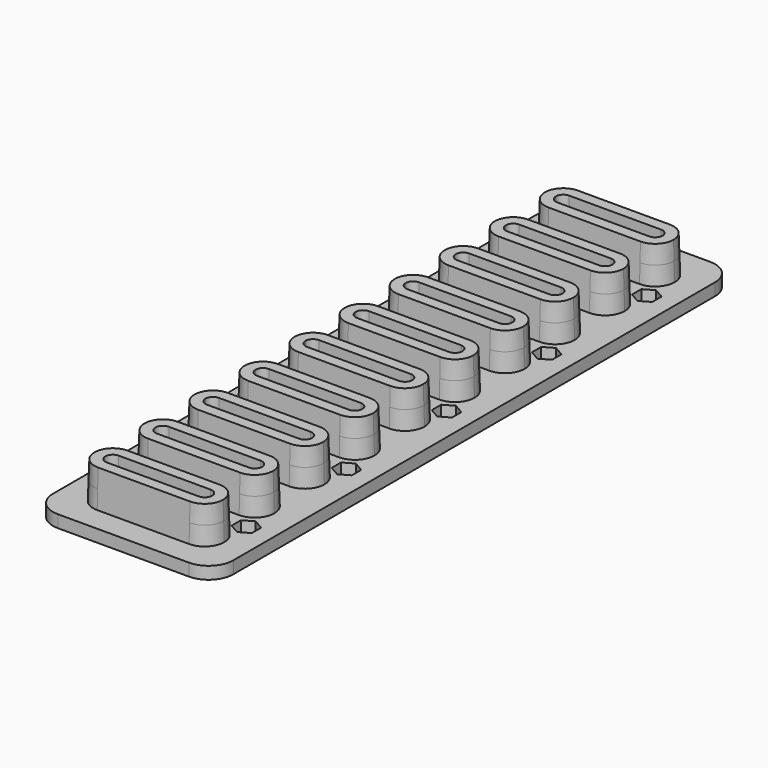
from build123d import *

# Parameters (mm, degrees)
F2_DEPTH      = 7.5
F2_TAPER      = 1.909
F2_DEPTH_BACK = 7.5
F2_TAPER_BACK = -1.909
F3_DEPTH      = 7.5
F3_DEPTH_BACK = 7.5
F4_R          = 2.75
F5_DEPTH      = 5
F6_DEPTH      = 4.5


with BuildPart() as f2:
    # F0 (on Top) → F2 (new body, two sides)
    with BuildSketch(Plane.XY) as f2_sk:
        with BuildLine():
            Line((18.65, 7.7), (-18.65, 7.7))
            ThreePointArc((-18.65, 7.7), (-24.0947222151, 5.4447222151), (-26.35, 0))
            ThreePointArc((-26.35, 0), (-24.0947222151, -5.4447222151), (-18.65, -7.7))
            Line((-18.65, -7.7), (18.65, -7.7))
            ThreePointArc((18.65, -7.7), (24.0947222151, -5.4447222151), (26.35, 0))
            ThreePointArc((26.35, 0), (24.0947222151, 5.4447222151), (18.65, 7.7))
        make_face()
    extrude(amount=F2_DEPTH, taper=F2_TAPER)
    extrude(f2_sk.sketch, amount=-F2_DEPTH_BACK, taper=F2_TAPER_BACK)


with BuildPart() as f2b:
    # F0 (on Top) → F2, piece 2 (new body, two sides)
    with BuildSketch(Plane.XY) as f2_2_sk:
        with BuildLine():
            Line((18.65, 33.1), (-18.65, 33.1))
            ThreePointArc((-18.65, 33.1), (-24.0947222151, 30.8447222151), (-26.35, 25.4))
            ThreePointArc((-26.35, 25.4), (-24.0947222151, 19.9552777849), (-18.65, 17.7))
            Line((-18.65, 17.7), (18.65, 17.7))
            ThreePointArc((18.65, 17.7), (24.0947222151, 19.9552777849), (26.35, 25.4))
            ThreePointArc((26.35, 25.4), (24.0947222151, 30.8447222151), (18.65, 33.1))
        make_face()
    extrude(amount=F2_DEPTH, taper=F2_TAPER)
    extrude(f2_2_sk.sketch, amount=-F2_DEPTH_BACK, taper=F2_TAPER_BACK)


with BuildPart() as f2c:
    # F0 (on Top) → F2, piece 3 (new body, two sides)
    with BuildSketch(Plane.XY) as f2_3_sk:
        with BuildLine():
            Line((-18.65, 43.1), (18.65, 43.1))
            ThreePointArc((18.65, 43.1), (24.0947222151, 45.3552777849), (26.35, 50.8))
            ThreePointArc((26.35, 50.8), (24.0947222151, 56.2447222151), (18.65, 58.5))
            Line((18.65, 58.5), (-18.65, 58.5))
            ThreePointArc((-18.65, 58.5), (-24.0947222151, 56.2447222151), (-26.35, 50.8))
            ThreePointArc((-26.35, 50.8), (-24.0947222151, 45.3552777849), (-18.65, 43.1))
        make_face()
    extrude(amount=F2_DEPTH, taper=F2_TAPER)
    extrude(f2_3_sk.sketch, amount=-F2_DEPTH_BACK, taper=F2_TAPER_BACK)


with BuildPart() as f2d:
    # F0 (on Top) → F2, piece 4 (new body, two sides)
    with BuildSketch(Plane.XY) as f2_4_sk:
        with BuildLine():
            ThreePointArc((18.65, 68.5), (24.0947222151, 70.7552777849), (26.35, 76.2))
            ThreePointArc((26.35, 76.2), (24.0947222151, 81.6447222151), (18.65, 83.9))
            Line((18.65, 83.9), (-18.65, 83.9))
            ThreePointArc((-18.65, 83.9), (-24.0947222151, 81.6447222151), (-26.35, 76.2))
            ThreePointArc((-26.35, 76.2), (-24.0947222151, 70.7552777849), (-18.65, 68.5))
            Line((-18.65, 68.5), (18.65, 68.5))
        make_face()
    extrude(amount=F2_DEPTH, taper=F2_TAPER)
    extrude(f2_4_sk.sketch, amount=-F2_DEPTH_BACK, taper=F2_TAPER_BACK)


with BuildPart() as f2e:
    # F0 (on Top) → F2, piece 5 (new body, two sides)
    with BuildSketch(Plane.XY) as f2_5_sk:
        with BuildLine():
            Line((18.65, 109.3), (-18.65, 109.3))
            ThreePointArc((-18.65, 109.3), (-24.0947222151, 107.0447222151), (-26.35, 101.6))
            ThreePointArc((-26.35, 101.6), (-24.0947222151, 96.1552777849), (-18.65, 93.9))
            Line((-18.65, 93.9), (18.65, 93.9))
            ThreePointArc((18.65, 93.9), (24.0947222151, 96.1552777849), (26.35, 101.6))
            ThreePointArc((26.35, 101.6), (24.0947222151, 107.0447222151), (18.65, 109.3))
        make_face()
    extrude(amount=F2_DEPTH, taper=F2_TAPER)
    extrude(f2_5_sk.sketch, amount=-F2_DEPTH_BACK, taper=F2_TAPER_BACK)


with BuildPart() as f2f:
    # F0 (on Top) → F2, piece 6 (new body, two sides)
    with BuildSketch(Plane.XY) as f2_6_sk:
        with BuildLine():
            ThreePointArc((-26.35, 127), (-24.0947222151, 121.5552777849), (-18.65, 119.3))
            Line((-18.65, 119.3), (18.65, 119.3))
            ThreePointArc((18.65, 119.3), (24.0947222151, 121.5552777849), (26.35, 127))
            ThreePointArc((26.35, 127), (24.0947222151, 132.4447222151), (18.65, 134.7))
            Line((18.65, 134.7), (-18.65, 134.7))
            ThreePointArc((-18.65, 134.7), (-24.0947222151, 132.4447222151), (-26.35, 127))
        make_face()
    extrude(amount=F2_DEPTH, taper=F2_TAPER)
    extrude(f2_6_sk.sketch, amount=-F2_DEPTH_BACK, taper=F2_TAPER_BACK)


with BuildPart() as f2g:
    # F0 (on Top) → F2, piece 7 (new body, two sides)
    with BuildSketch(Plane.XY) as f2_7_sk:
        with BuildLine():
            Line((-18.65, 144.7), (18.65, 144.7))
            ThreePointArc((18.65, 144.7), (24.0947222151, 146.9552777849), (26.35, 152.4))
            ThreePointArc((26.35, 152.4), (24.0947222151, 157.8447222151), (18.65, 160.1))
            Line((18.65, 160.1), (-18.65, 160.1))
            ThreePointArc((-18.65, 160.1), (-24.0947222151, 157.8447222151), (-26.35, 152.4))
            ThreePointArc((-26.35, 152.4), (-24.0947222151, 146.9552777849), (-18.65, 144.7))
        make_face()
    extrude(amount=F2_DEPTH, taper=F2_TAPER)
    extrude(f2_7_sk.sketch, amount=-F2_DEPTH_BACK, taper=F2_TAPER_BACK)


with BuildPart() as f2h:
    # F0 (on Top) → F2, piece 8 (new body, two sides)
    with BuildSketch(Plane.XY) as f2_8_sk:
        with BuildLine():
            ThreePointArc((-18.65, 185.5), (-24.0947222151, 183.2447222151), (-26.35, 177.8))
            ThreePointArc((-26.35, 177.8), (-24.0947222151, 172.3552777849), (-18.65, 170.1))
            Line((-18.65, 170.1), (18.65, 170.1))
            ThreePointArc((18.65, 170.1), (24.0947222151, 172.3552777849), (26.35, 177.8))
            ThreePointArc((26.35, 177.8), (24.0947222151, 183.2447222151), (18.65, 185.5))
            Line((18.65, 185.5), (-18.65, 185.5))
        make_face()
    extrude(amount=F2_DEPTH, taper=F2_TAPER)
    extrude(f2_8_sk.sketch, amount=-F2_DEPTH_BACK, taper=F2_TAPER_BACK)


with BuildPart() as f2i:
    # F0 (on Top) → F2, piece 9 (new body, two sides)
    with BuildSketch(Plane.XY) as f2_9_sk:
        with BuildLine():
            Line((18.65, 210.9), (-18.65, 210.9))
            ThreePointArc((-18.65, 210.9), (-24.0947222151, 208.6447222151), (-26.35, 203.2))
            ThreePointArc((-26.35, 203.2), (-24.0947222151, 197.7552777849), (-18.65, 195.5))
            Line((-18.65, 195.5), (18.65, 195.5))
            ThreePointArc((18.65, 195.5), (24.0947222151, 197.7552777849), (26.35, 203.2))
            ThreePointArc((26.35, 203.2), (24.0947222151, 208.6447222151), (18.65, 210.9))
        make_face()
    extrude(amount=F2_DEPTH, taper=F2_TAPER)
    extrude(f2_9_sk.sketch, amount=-F2_DEPTH_BACK, taper=F2_TAPER_BACK)


with BuildPart() as f2j:
    # F0 (on Top) → F2, piece 10 (new body, two sides)
    with BuildSketch(Plane.XY) as f2_10_sk:
        with BuildLine():
            ThreePointArc((-26.35, 228.6), (-24.0947222151, 223.1552777849), (-18.65, 220.9))
            Line((-18.65, 220.9), (18.65, 220.9))
            ThreePointArc((18.65, 220.9), (24.0947222151, 223.1552777849), (26.35, 228.6))
            ThreePointArc((26.35, 228.6), (24.0947222151, 234.0447222151), (18.65, 236.3))
            Line((18.65, 236.3), (-18.65, 236.3))
            ThreePointArc((-18.65, 236.3), (-24.0947222151, 234.0447222151), (-26.35, 228.6))
        make_face()
    extrude(amount=F2_DEPTH, taper=F2_TAPER)
    extrude(f2_10_sk.sketch, amount=-F2_DEPTH_BACK, taper=F2_TAPER_BACK)


with BuildPart() as f3_tool:
    # F1 (on Top) → F3 (new body, two sides)
    with BuildSketch(Plane.XY) as f3_sk:
        with BuildLine():
            Line((18.65, 3), (-18.65, 3))
            ThreePointArc((-18.65, 3), (-20.7713203436, 2.1213203436), (-21.65, 0))
            ThreePointArc((-21.65, 0), (-20.7713203436, -2.1213203436), (-18.65, -3))
            Line((-18.65, -3), (18.65, -3))
            ThreePointArc((18.65, -3), (20.7713203436, -2.1213203436), (21.65, 0))
            ThreePointArc((21.65, 0), (20.7713203436, 2.1213203436), (18.65, 3))
        make_face()
        with BuildLine():
            Line((18.65, 28.4), (-18.65, 28.4))
            ThreePointArc((-18.65, 28.4), (-20.7713203436, 27.5213203436), (-21.65, 25.4))
            ThreePointArc((-21.65, 25.4), (-20.7713203436, 23.2786796564), (-18.65, 22.4))
            Line((-18.65, 22.4), (18.65, 22.4))
            ThreePointArc((18.65, 22.4), (20.7713203436, 23.2786796564), (21.65, 25.4))
            ThreePointArc((21.65, 25.4), (20.7713203436, 27.5213203436), (18.65, 28.4))
        make_face()
        with BuildLine():
            ThreePointArc((-21.65, 50.8), (-20.7713203436, 48.6786796564), (-18.65, 47.8))
            Line((-18.65, 47.8), (18.65, 47.8))
            ThreePointArc((18.65, 47.8), (20.7713203436, 48.6786796564), (21.65, 50.8))
            ThreePointArc((21.65, 50.8), (20.7713203436, 52.9213203436), (18.65, 53.8))
            Line((18.65, 53.8), (-18.65, 53.8))
            ThreePointArc((-18.65, 53.8), (-20.7713203436, 52.9213203436), (-21.65, 50.8))
        make_face()
        with BuildLine():
            ThreePointArc((-21.65, 76.2), (-20.7713203436, 74.0786796564), (-18.65, 73.2))
            Line((-18.65, 73.2), (18.65, 73.2))
            ThreePointArc((18.65, 73.2), (20.7713203436, 74.0786796564), (21.65, 76.2))
            ThreePointArc((21.65, 76.2), (20.7713203436, 78.3213203436), (18.65, 79.2))
            Line((18.65, 79.2), (-18.65, 79.2))
            ThreePointArc((-18.65, 79.2), (-20.7713203436, 78.3213203436), (-21.65, 76.2))
        make_face()
        with BuildLine():
            ThreePointArc((-21.65, 101.6), (-20.7713203436, 99.4786796564), (-18.65, 98.6))
            Line((-18.65, 98.6), (18.65, 98.6))
            ThreePointArc((18.65, 98.6), (20.7713203436, 99.4786796564), (21.65, 101.6))
            ThreePointArc((21.65, 101.6), (20.7713203436, 103.7213203436), (18.65, 104.6))
            Line((18.65, 104.6), (-18.65, 104.6))
            ThreePointArc((-18.65, 104.6), (-20.7713203436, 103.7213203436), (-21.65, 101.6))
        make_face()
        with BuildLine():
            ThreePointArc((-21.65, 127), (-20.7713203436, 124.8786796564), (-18.65, 124))
            Line((-18.65, 124), (18.65, 124))
            ThreePointArc((18.65, 124), (20.7713203436, 124.8786796564), (21.65, 127))
            ThreePointArc((21.65, 127), (20.7713203436, 129.1213203436), (18.65, 130))
            Line((18.65, 130), (-18.65, 130))
            ThreePointArc((-18.65, 130), (-20.7713203436, 129.1213203436), (-21.65, 127))
        make_face()
        with BuildLine():
            ThreePointArc((-21.65, 152.4), (-20.7713203436, 150.2786796564), (-18.65, 149.4))
            Line((-18.65, 149.4), (18.65, 149.4))
            ThreePointArc((18.65, 149.4), (20.7713203436, 150.2786796564), (21.65, 152.4))
            ThreePointArc((21.65, 152.4), (20.7713203436, 154.5213203436), (18.65, 155.4))
            Line((18.65, 155.4), (-18.65, 155.4))
            ThreePointArc((-18.65, 155.4), (-20.7713203436, 154.5213203436), (-21.65, 152.4))
        make_face()
        with BuildLine():
            ThreePointArc((-21.65, 203.2), (-20.7713203436, 201.0786796564), (-18.65, 200.2))
            Line((-18.65, 200.2), (18.65, 200.2))
            ThreePointArc((18.65, 200.2), (20.7713203436, 201.0786796564), (21.65, 203.2))
            ThreePointArc((21.65, 203.2), (20.7713203436, 205.3213203436), (18.65, 206.2))
            Line((18.65, 206.2), (-18.65, 206.2))
            ThreePointArc((-18.65, 206.2), (-20.7713203436, 205.3213203436), (-21.65, 203.2))
        make_face()
        with BuildLine():
            Line((18.65, 180.8), (-18.65, 180.8))
            ThreePointArc((-18.65, 180.8), (-20.7713203436, 179.9213203436), (-21.65, 177.8))
            ThreePointArc((-21.65, 177.8), (-20.7713203436, 175.6786796564), (-18.65, 174.8))
            Line((-18.65, 174.8), (18.65, 174.8))
            ThreePointArc((18.65, 174.8), (20.7713203436, 175.6786796564), (21.65, 177.8))
            ThreePointArc((21.65, 177.8), (20.7713203436, 179.9213203436), (18.65, 180.8))
        make_face()
        with BuildLine():
            ThreePointArc((-21.65, 228.6), (-20.7713203436, 226.4786796564), (-18.65, 225.6))
            Line((-18.65, 225.6), (18.65, 225.6))
            ThreePointArc((18.65, 225.6), (20.7713203436, 226.4786796564), (21.65, 228.6))
            ThreePointArc((21.65, 228.6), (20.7713203436, 230.7213203436), (18.65, 231.6))
            Line((18.65, 231.6), (-18.65, 231.6))
            ThreePointArc((-18.65, 231.6), (-20.7713203436, 230.7213203436), (-21.65, 228.6))
        make_face()
    extrude(amount=F3_DEPTH)
    extrude(f3_sk.sketch, amount=-F3_DEPTH_BACK)


with BuildPart() as f2_1:
    add(f2.part)

    # F3: cut by f3_tool
    add(f3_tool.part, mode=Mode.SUBTRACT)



with BuildPart() as f2b_1:
    add(f2b.part)

    # F3: cut by f3_tool
    add(f3_tool.part, mode=Mode.SUBTRACT)


with BuildPart() as f2c_1:
    add(f2c.part)

    # F3: cut by f3_tool
    add(f3_tool.part, mode=Mode.SUBTRACT)


with BuildPart() as f2d_1:
    add(f2d.part)

    # F3: cut by f3_tool
    add(f3_tool.part, mode=Mode.SUBTRACT)


with BuildPart() as f2e_1:
    add(f2e.part)

    # F3: cut by f3_tool
    add(f3_tool.part, mode=Mode.SUBTRACT)


with BuildPart() as f2f_1:
    add(f2f.part)

    # F3: cut by f3_tool
    add(f3_tool.part, mode=Mode.SUBTRACT)


with BuildPart() as f2g_1:
    add(f2g.part)

    # F3: cut by f3_tool
    add(f3_tool.part, mode=Mode.SUBTRACT)


with BuildPart() as f2h_1:
    add(f2h.part)

    # F3: cut by f3_tool
    add(f3_tool.part, mode=Mode.SUBTRACT)


with BuildPart() as f2i_1:
    add(f2i.part)

    # F3: cut by f3_tool
    add(f3_tool.part, mode=Mode.SUBTRACT)


with BuildPart() as f2j_1:
    add(f2j.part)

    # F3: cut by f3_tool
    add(f3_tool.part, mode=Mode.SUBTRACT)


with BuildPart() as f2_2:
    add(f2_1.part)

    add(f2b_1.part)  # F5 merges F2b

    add(f2c_1.part)  # F5 merges F2c

    add(f2d_1.part)  # F5 merges F2d

    add(f2e_1.part)  # F5 merges F2e

    add(f2f_1.part)  # F5 merges F2f

    add(f2g_1.part)  # F5 merges F2g

    add(f2h_1.part)  # F5 merges F2h

    add(f2i_1.part)  # F5 merges F2i

    add(f2j_1.part)  # F5 merges F2j
    # F4 (on face) → F5 (join)
    with BuildSketch(Plane(origin=(0, 0, -7.5), x_dir=(1, 0, 0), z_dir=(0, 0, -1))):
        with BuildLine():
            ThreePointArc((36.5999800244, 7.9499800244), (33.6710478363, 15.0210478363), (26.5999800244, 17.9499800244))
            Line((26.5999800244, 17.9499800244), (-26.5999800244, 17.9499800244))
            ThreePointArc((-26.5999800244, 17.9499800244), (-33.6710478363, 15.0210478363), (-36.5999800244, 7.9499800244))
            Line((-36.5999800244, 7.9499800244), (-36.5999800244, -236.5499800244))
            ThreePointArc((-36.5999800244, -236.5499800244), (-33.6710478363, -243.6210478363), (-26.5999800244, -246.5499800244))
            Line((-26.5999800244, -246.5499800244), (26.5999800244, -246.5499800244))
            ThreePointArc((26.5999800244, -246.5499800244), (33.6710478363, -243.6210478363), (36.5999800244, -236.5499800244))
            Line((36.5999800244, -236.5499800244), (36.5999800244, 7.9499800244))
        make_face()
        Polygon((-25.4, -220.6342722074), (-29.5, -218.2671361037), (-29.5, -213.5328638963), (-25.4, -211.1657277926), (-21.3, -213.5328638963), (-21.3, -218.2671361037), align=None, mode=Mode.SUBTRACT)
        Polygon((-25.4, -169.8342722074), (-29.5, -167.4671361037), (-29.5, -162.7328638963), (-25.4, -160.3657277926), (-21.3, -162.7328638963), (-21.3, -167.4671361037), align=None, mode=Mode.SUBTRACT)
        Polygon((29.5, -213.5328638963), (29.5, -218.2671361037), (25.4, -220.6342722074), (21.3, -218.2671361037), (21.3, -213.5328638963), (25.4, -211.1657277926), align=None, mode=Mode.SUBTRACT)
        Polygon((29.5, -162.7328638963), (29.5, -167.4671361037), (25.4, -169.8342722074), (21.3, -167.4671361037), (21.3, -162.7328638963), (25.4, -160.3657277926), align=None, mode=Mode.SUBTRACT)
        Polygon((21.3, -116.6671361037), (21.3, -111.9328638963), (25.4, -109.5657277926), (29.5, -111.9328638963), (29.5, -116.6671361037), (25.4, -119.0342722074), align=None, mode=Mode.SUBTRACT)
        Polygon((-29.5, -116.6671361037), (-29.5, -111.9328638963), (-25.4, -109.5657277926), (-21.3, -111.9328638963), (-21.3, -116.6671361037), (-25.4, -119.0342722074), align=None, mode=Mode.SUBTRACT)
        Polygon((-25.4, -68.2342722074), (-29.5, -65.8671361037), (-29.5, -61.1328638963), (-25.4, -58.7657277926), (-21.3, -61.1328638963), (-21.3, -65.8671361037), align=None, mode=Mode.SUBTRACT)
        Polygon((-21.3, -10.3328638963), (-21.3, -15.0671361037), (-25.4, -17.4342722074), (-29.5, -15.0671361037), (-29.5, -10.3328638963), (-25.4, -7.9657277926), align=None, mode=Mode.SUBTRACT)
        Polygon((25.4, -68.2342722074), (21.3, -65.8671361037), (21.3, -61.1328638963), (25.4, -58.7657277926), (29.5, -61.1328638963), (29.5, -65.8671361037), align=None, mode=Mode.SUBTRACT)
        with BuildLine():
            Line((18.65, -7.9499800244), (-18.65, -7.9499800244))
            ThreePointArc((-18.65, -7.9499800244), (-24.2714847855, -5.6214847855), (-26.5999800244, 0))
            ThreePointArc((-26.5999800244, 0), (-24.2714847855, 5.6214847855), (-18.65, 7.9499800244))
            Line((-18.65, 7.9499800244), (18.65, 7.9499800244))
            ThreePointArc((18.65, 7.9499800244), (24.2714847855, 5.6214847855), (26.5999800244, 0))
            ThreePointArc((26.5999800244, 0), (24.2714847855, -5.6214847855), (18.65, -7.9499800244))
        make_face(mode=Mode.SUBTRACT)
        Polygon((25.4, -17.4342722074), (21.3, -15.0671361037), (21.3, -10.3328638963), (25.4, -7.9657277926), (29.5, -10.3328638963), (29.5, -15.0671361037), align=None, mode=Mode.SUBTRACT)
        Polygon((21.3, -10.3328638963), (21.3, -15.0671361037), (25.4, -17.4342722074), (29.5, -15.0671361037), (29.5, -10.3328638963), (25.4, -7.9657277926), align=None)
        with Locations((25.4, -12.7)):
            Circle(F4_R, mode=Mode.SUBTRACT)
        Polygon((21.3, -61.1328638963), (21.3, -65.8671361037), (25.4, -68.2342722074), (29.5, -65.8671361037), (29.5, -61.1328638963), (25.4, -58.7657277926), align=None)
        with Locations((25.4, -63.5)):
            Circle(F4_R, mode=Mode.SUBTRACT)
        Polygon((25.4, -109.5657277926), (21.3, -111.9328638963), (21.3, -116.6671361037), (25.4, -119.0342722074), (29.5, -116.6671361037), (29.5, -111.9328638963), align=None)
        with Locations((25.4, -114.3)):
            Circle(F4_R, mode=Mode.SUBTRACT)
        Polygon((25.4, -169.8342722074), (29.5, -167.4671361037), (29.5, -162.7328638963), (25.4, -160.3657277926), (21.3, -162.7328638963), (21.3, -167.4671361037), align=None)
        with Locations((25.4, -165.1)):
            Circle(F4_R, mode=Mode.SUBTRACT)
        Polygon((25.4, -220.6342722074), (29.5, -218.2671361037), (29.5, -213.5328638963), (25.4, -211.1657277926), (21.3, -213.5328638963), (21.3, -218.2671361037), align=None)
        with Locations((25.4, -215.9)):
            Circle(F4_R, mode=Mode.SUBTRACT)
        Polygon((-29.5, -213.5328638963), (-29.5, -218.2671361037), (-25.4, -220.6342722074), (-21.3, -218.2671361037), (-21.3, -213.5328638963), (-25.4, -211.1657277926), align=None)
        with Locations((-25.4, -215.9)):
            Circle(F4_R, mode=Mode.SUBTRACT)
        Polygon((-29.5, -162.7328638963), (-29.5, -167.4671361037), (-25.4, -169.8342722074), (-21.3, -167.4671361037), (-21.3, -162.7328638963), (-25.4, -160.3657277926), align=None)
        with Locations((-25.4, -165.1)):
            Circle(F4_R, mode=Mode.SUBTRACT)
        Polygon((-25.4, -109.5657277926), (-29.5, -111.9328638963), (-29.5, -116.6671361037), (-25.4, -119.0342722074), (-21.3, -116.6671361037), (-21.3, -111.9328638963), align=None)
        with Locations((-25.4, -114.3)):
            Circle(F4_R, mode=Mode.SUBTRACT)
        Polygon((-29.5, -61.1328638963), (-29.5, -65.8671361037), (-25.4, -68.2342722074), (-21.3, -65.8671361037), (-21.3, -61.1328638963), (-25.4, -58.7657277926), align=None)
        with Locations((-25.4, -63.5)):
            Circle(F4_R, mode=Mode.SUBTRACT)
        Polygon((-25.4, -17.4342722074), (-21.3, -15.0671361037), (-21.3, -10.3328638963), (-25.4, -7.9657277926), (-29.5, -10.3328638963), (-29.5, -15.0671361037), align=None)
        with Locations((-25.4, -12.7)):
            Circle(F4_R, mode=Mode.SUBTRACT)
        with BuildLine():
            ThreePointArc((-26.5999800244, 0), (-24.2714847855, -5.6214847855), (-18.65, -7.9499800244))
            Line((-18.65, -7.9499800244), (18.65, -7.9499800244))
            ThreePointArc((18.65, -7.9499800244), (24.2714847855, -5.6214847855), (26.5999800244, 0))
            ThreePointArc((26.5999800244, 0), (24.2714847855, 5.6214847855), (18.65, 7.9499800244))
            Line((18.65, 7.9499800244), (-18.65, 7.9499800244))
            ThreePointArc((-18.65, 7.9499800244), (-24.2714847855, 5.6214847855), (-26.5999800244, 0))
        make_face()
        with BuildLine():
            ThreePointArc((18.65, 3), (21.65, 0), (18.65, -3))
            Line((18.65, -3), (-18.65, -3))
            ThreePointArc((-18.65, -3), (-21.65, 0), (-18.65, 3))
            Line((-18.65, 3), (18.65, 3))
        make_face(mode=Mode.SUBTRACT)
    extrude(amount=F5_DEPTH)

    # F4 (on face) → F6 (cut)
    with BuildSketch(Plane(origin=(0, 0, -7.5), x_dir=(1, 0, 0), z_dir=(0, 0, -1))):
        Polygon((21.3, -10.3328638963), (21.3, -15.0671361037), (25.4, -17.4342722074), (29.5, -15.0671361037), (29.5, -10.3328638963), (25.4, -7.9657277926), align=None)
        with Locations((25.4, -12.7)):
            Circle(F4_R, mode=Mode.SUBTRACT)
        Polygon((-25.4, -17.4342722074), (-21.3, -15.0671361037), (-21.3, -10.3328638963), (-25.4, -7.9657277926), (-29.5, -10.3328638963), (-29.5, -15.0671361037), align=None)
        with Locations((-25.4, -12.7)):
            Circle(F4_R, mode=Mode.SUBTRACT)
        Polygon((-29.5, -61.1328638963), (-29.5, -65.8671361037), (-25.4, -68.2342722074), (-21.3, -65.8671361037), (-21.3, -61.1328638963), (-25.4, -58.7657277926), align=None)
        with Locations((-25.4, -63.5)):
            Circle(F4_R, mode=Mode.SUBTRACT)
        Polygon((-25.4, -109.5657277926), (-29.5, -111.9328638963), (-29.5, -116.6671361037), (-25.4, -119.0342722074), (-21.3, -116.6671361037), (-21.3, -111.9328638963), align=None)
        with Locations((-25.4, -114.3)):
            Circle(F4_R, mode=Mode.SUBTRACT)
        Polygon((-29.5, -162.7328638963), (-29.5, -167.4671361037), (-25.4, -169.8342722074), (-21.3, -167.4671361037), (-21.3, -162.7328638963), (-25.4, -160.3657277926), align=None)
        with Locations((-25.4, -165.1)):
            Circle(F4_R, mode=Mode.SUBTRACT)
        Polygon((-29.5, -213.5328638963), (-29.5, -218.2671361037), (-25.4, -220.6342722074), (-21.3, -218.2671361037), (-21.3, -213.5328638963), (-25.4, -211.1657277926), align=None)
        with Locations((-25.4, -215.9)):
            Circle(F4_R, mode=Mode.SUBTRACT)
        Polygon((25.4, -220.6342722074), (29.5, -218.2671361037), (29.5, -213.5328638963), (25.4, -211.1657277926), (21.3, -213.5328638963), (21.3, -218.2671361037), align=None)
        with Locations((25.4, -215.9)):
            Circle(F4_R, mode=Mode.SUBTRACT)
        Polygon((25.4, -169.8342722074), (29.5, -167.4671361037), (29.5, -162.7328638963), (25.4, -160.3657277926), (21.3, -162.7328638963), (21.3, -167.4671361037), align=None)
        with Locations((25.4, -165.1)):
            Circle(F4_R, mode=Mode.SUBTRACT)
        Polygon((25.4, -109.5657277926), (21.3, -111.9328638963), (21.3, -116.6671361037), (25.4, -119.0342722074), (29.5, -116.6671361037), (29.5, -111.9328638963), align=None)
        with Locations((25.4, -114.3)):
            Circle(F4_R, mode=Mode.SUBTRACT)
        Polygon((21.3, -61.1328638963), (21.3, -65.8671361037), (25.4, -68.2342722074), (29.5, -65.8671361037), (29.5, -61.1328638963), (25.4, -58.7657277926), align=None)
        with Locations((25.4, -63.5)):
            Circle(F4_R, mode=Mode.SUBTRACT)
    extrude(amount=F6_DEPTH, mode=Mode.SUBTRACT)


solid = f2_2.part
